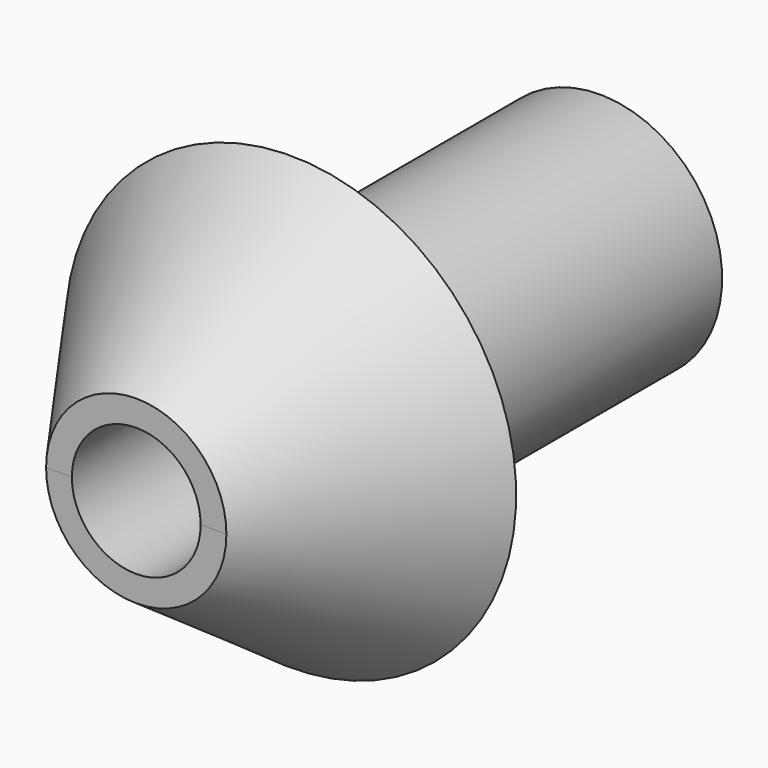
from build123d import *

# Parameters (mm, degrees)
SKETCH002_R             = 2
POCKET_DEPTH            = 10.001
POCKET_DEPTH_BACK       = 12.001
SKETCH003_W             = 10
SKETCH003_H             = 3.516841
POCKET001_DEPTH         = 7.003075
POCKET001_DEPTH_BACK    = 7.003075
BODY001_PLACEMENT_ANGLE = 180


with BuildPart() as part:
    # Sketch001 → Revolution001 (revolve)
    with BuildSketch(Plane.XY):
        Polygon((0, -12), (-3.8, -12), (-3.8, 0), (-7.002075, 0), (0, 10), align=None)
    revolve(axis=Axis((0, 0, 0), (0, 1, 0)))

    # Sketch002 → Pocket (cut, two sides)
    with BuildSketch(Plane.XZ) as pocket_sk:
        Circle(SKETCH002_R)
    extrude(amount=-POCKET_DEPTH, mode=Mode.SUBTRACT)
    extrude(pocket_sk.sketch, amount=POCKET_DEPTH_BACK, mode=Mode.SUBTRACT)

    # Sketch003 → Pocket001 (cut, two sides)
    with BuildSketch(Plane.XY) as pocket001_sk:
        with Locations((0, 7.75842)):
            Rectangle(SKETCH003_W, SKETCH003_H)
    extrude(amount=-POCKET001_DEPTH, mode=Mode.SUBTRACT)
    extrude(pocket001_sk.sketch, amount=POCKET001_DEPTH_BACK, mode=Mode.SUBTRACT)


with BuildPart() as part_1:
    # Body001 placement: moved
    add(part.part.moved(Location((0, 15, 0))).rotate(Axis((0, 15, 0), (1, 0, 0)), BODY001_PLACEMENT_ANGLE))


solid = part_1.part
